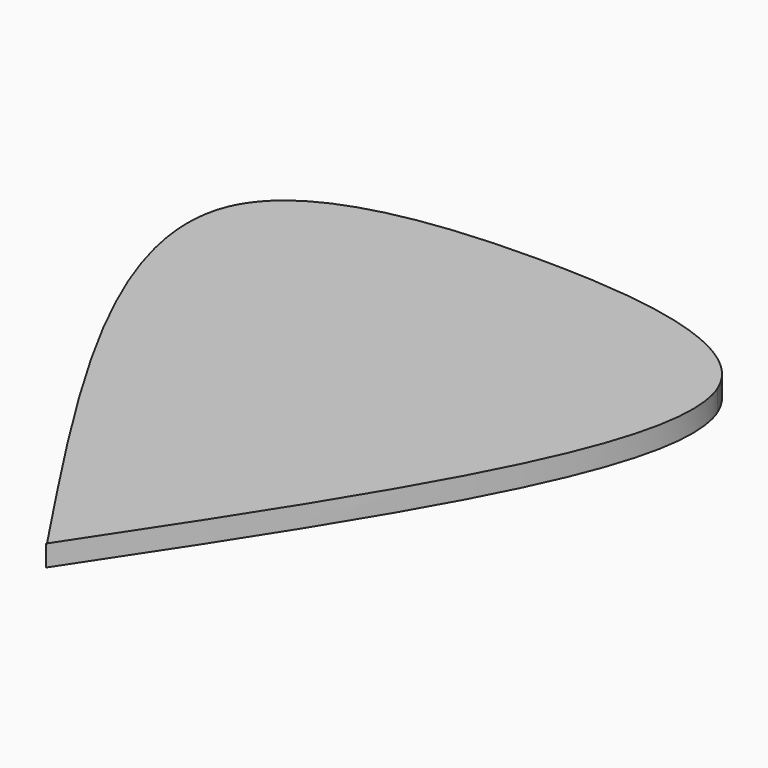
from build123d import *

# Parameters (mm, degrees)
F1_DEPTH = 1.143


with BuildPart() as f1:
    # F0 (on Top) → F1 (new body)
    with BuildSketch(Plane.XY):
        with BuildLine():
            add(Edge.make_bspline(
                [(-18.5046829283, 30.8430176228), (-24.3877528194, 30.8424266682), (-30.2719686891, 29.9784386119), (-31.7522212863, 26.3669323176)],
                knots=[0.5001408003, 0.5001408003, 0.5001408003, 0.5001408003, 0.6997550787, 0.6997550787, 0.6997550787, 0.6997550787], degree=3))
            Line((-31.7522212863, 26.3669323176), (-18.5046829283, 26.3669323176))
            Line((-18.5046829283, 26.3669323176), (-18.5046829283, 30.8430176228))
        make_face()
        with BuildLine():
            Line((-18.5046829283, 26.3669323176), (-31.7522212863, 26.3669323176))
            add(Edge.make_bspline(
                [(-31.7522212863, 26.3669323176), (-33.9787069275, 20.9347736964), (-26.2416949279, 9.2866478226), (-18.5046829283, -2.3614780512)],
                knots=[0.6997550787, 0.6997550787, 0.6997550787, 0.6997550787, 1, 1, 1, 1], degree=3))
            Line((-18.5046829283, -2.3614780512), (-18.5046829283, 26.3669323176))
        make_face()
        with BuildLine():
            Line((-18.5046829283, 30.8430176228), (-18.5046829283, 26.3669323176))
            Line((-18.5046829283, 26.3669323176), (-5.2571445704, 26.3669323176))
            add(Edge.make_bspline(
                [(-5.2571445704, 26.3669323176), (-6.7396891247, 29.9808024305), (-12.6216130372, 30.8436085775), (-18.5046829283, 30.8430176228)],
                knots=[0.300526522, 0.300526522, 0.300526522, 0.300526522, 0.5001408003, 0.5001408003, 0.5001408003, 0.5001408003], degree=3))
        make_face()
        with BuildLine():
            Line((-5.2571445704, 26.3669323176), (-18.5046829283, 26.3669323176))
            Line((-18.5046829283, 26.3669323176), (-18.5046829283, -2.3614780512))
            Line((-18.5046829283, -2.3614780512), (-18.5046829283, -2.4268436246))
            add(Edge.make_bspline(
                [(-18.5046829283, -2.4268436246), (-10.7649015024, 9.249638209), (-3.0251200765, 20.9261200426), (-5.2571445704, 26.3669323176)],
                knots=[0, 0, 0, 0, 0.300526522, 0.300526522, 0.300526522, 0.300526522], degree=3))
        make_face()
    extrude(amount=F1_DEPTH)


solid = f1.part
